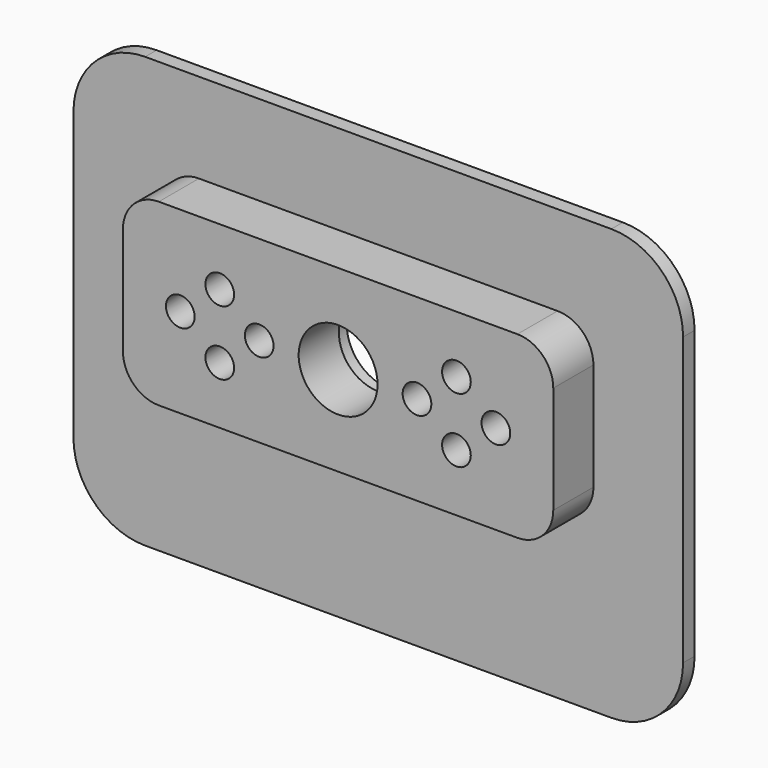
from build123d import *

# Parameters (mm, degrees)
F0_W     = 85
F0_H     = 60
F0_R     = 6
F1_DEPTH = 2
F2_W     = 60
F2_H     = 25
F2_R     = 5.5
F3_DEPTH = 7
F4_R     = 5
F5_R     = 10
F6_R     = 2
F7_DEPTH = 4


with BuildPart() as f1:
    # F0 (on Front) → F1 (new body)
    with BuildSketch(Plane.XZ):
        with Locations((0, -5)):
            Rectangle(F0_W, F0_H)
        Circle(F0_R, mode=Mode.SUBTRACT)
    extrude(amount=F1_DEPTH)

    # F2 (on face) → F3 (join)
    with BuildSketch(Plane.XZ.offset(2)):
        Rectangle(F2_W, F2_H)
        Circle(F2_R, mode=Mode.SUBTRACT)
    extrude(amount=F3_DEPTH)

    # F4
    f4_edges = [f1.edges().sort_by_distance(p)[0] for p in [
        (30, -5.5, 12.5),
        (30, -5.5, -12.5),
        (-30, -5.5, -12.5),
        (-30, -5.5, 12.5),
    ]]
    fillet(f4_edges, radius=F4_R)

    # F5
    f5_edges = [f1.edges().sort_by_distance(p)[0] for p in [
        (42.5, -1, 25),
        (42.5, -1, -35),
        (-42.5, -1, -35),
        (-42.5, -1, 25),
    ]]
    fillet(f5_edges, radius=F5_R)

    # F6 (on face) → F7 (cut)
    with BuildSketch(Plane.XZ.offset(9)):
        with Locations((-11, 0)):
            Circle(F6_R)
        with Locations((-22, 0)):
            Circle(F6_R)
        with Locations((11, 0)):
            Circle(F6_R)
        with Locations((22, 0)):
            Circle(F6_R)
        with Locations((-16.5, -4.5)):
            Circle(F6_R)
        with Locations((16.5, -4.5)):
            Circle(F6_R)
        with Locations((16.5, 4.5)):
            Circle(F6_R)
        with Locations((-16.5, 4.5)):
            Circle(F6_R)
    extrude(amount=-F7_DEPTH, mode=Mode.SUBTRACT)


solid = f1.part
